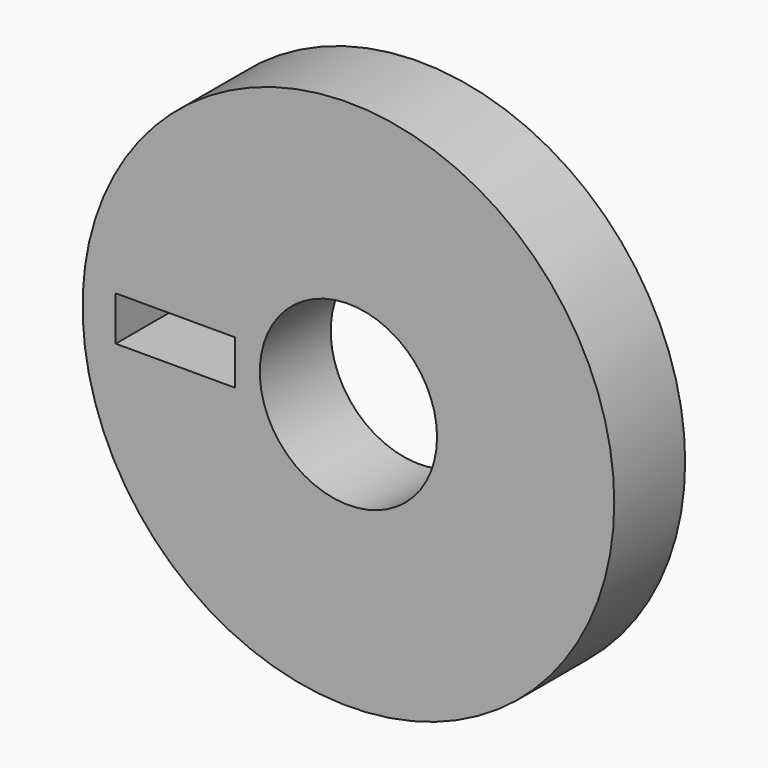
from build123d import *

# Parameters (mm, degrees)
F0_R     = 76.2
F0_W     = 34.150258
F0_H     = 12.716942
F0_R_2   = 25.4
F1_DEPTH = 25.4


with BuildPart() as f1:
    # F0 (on Front) → F1 (new body)
    with BuildSketch(Plane.XZ):
        Circle(F0_R)
        with Locations((-49.620055, 0)):
            Rectangle(F0_W, F0_H, mode=Mode.SUBTRACT)
        Circle(F0_R_2, mode=Mode.SUBTRACT)
        Circle(F0_R)
        with Locations((-49.620055, 0)):
            Rectangle(F0_W, F0_H, mode=Mode.SUBTRACT)
        Circle(F0_R_2, mode=Mode.SUBTRACT)
    extrude(amount=F1_DEPTH)


solid = f1.part
